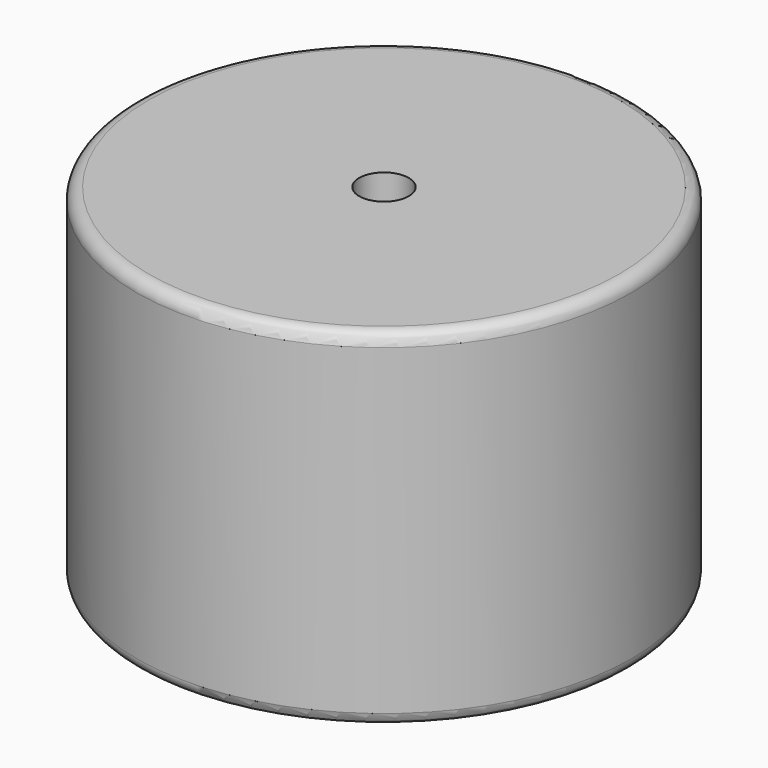
from build123d import *

# Parameters (mm, degrees)
F0_R     = 40
F1_DEPTH = 56
F2_D     = 8
F3_R     = 2


with BuildPart() as f1:
    # F0 (on Top) → F1 (new body)
    with BuildSketch(Plane.XY):
        Circle(F0_R)
    extrude(amount=F1_DEPTH)

    # F2 (through all)
    with Locations(Plane(origin=(0, 0, 0), x_dir=(1, 0, 0), z_dir=(0, 0, -1))):
        with Locations((0, 0)):
            Hole(F2_D / 2)

    # F3
    f3_edges = [f1.edges().sort_by_distance(p)[0] for p in [
        (40, 0, 28),
        (-40, 0, 0),
        (-40, 0, 56),
    ]]
    fillet(f3_edges, radius=F3_R)


solid = f1.part
